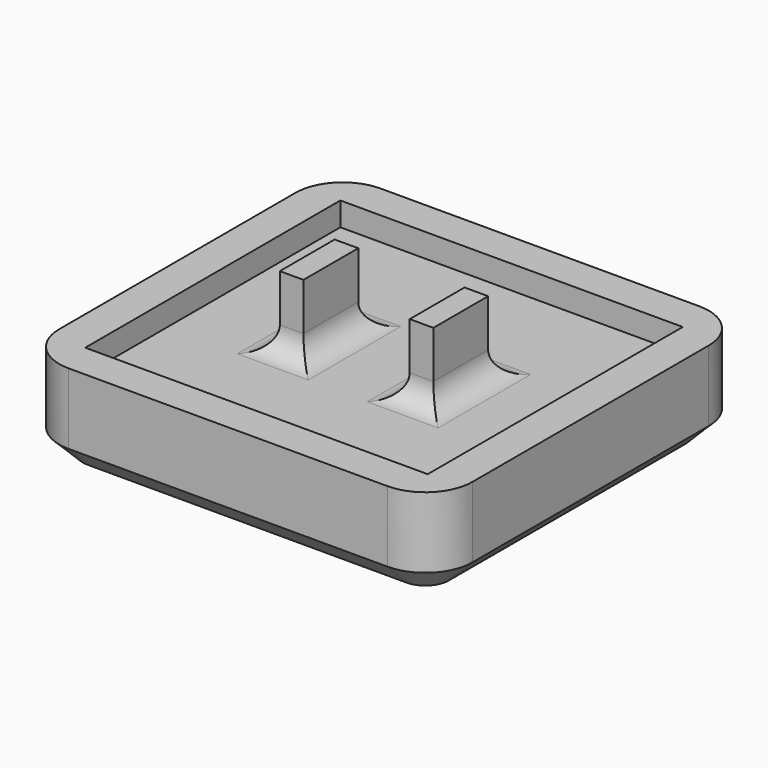
from build123d import *

# Parameters (mm, degrees)
SKETCH_W     = 17.5
SKETCH_H     = 16.5
PAD_DEPTH    = 4
SKETCH002_W  = 14.5
SKETCH002_H  = 13.5
POCKET_DEPTH = 5
SKETCH003_W  = 1
SKETCH003_H  = 2.9
PAD001_DEPTH = 3
FILLET_R     = 1
FILLET001_R  = 2
CHAMFER_SIZE = 1


with BuildPart() as part:
    # Sketch → Pad (new body)
    with BuildSketch(Plane.XY):
        Rectangle(SKETCH_W, SKETCH_H)
    extrude(amount=PAD_DEPTH)

    # Sketch002 → Pocket (cut)
    with BuildSketch(Plane.XY.offset(3)):
        Rectangle(SKETCH002_W, SKETCH002_H)
    extrude(amount=POCKET_DEPTH, mode=Mode.SUBTRACT)

    # Sketch003 (on Face11 of Pocket) → Pad001 (join)
    with BuildSketch(Plane.XY.offset(3)):
        with Locations((-2.75, 0)):
            Rectangle(SKETCH003_W, SKETCH003_H)
        with Locations((2.75, 0)):
            Rectangle(SKETCH003_W, SKETCH003_H)
    extrude(amount=PAD001_DEPTH)

    # Fillet
    fillet_edges = [part.edges().sort_by_distance(p)[0] for p in [
        (2.75, 1.45, 3),
        (3.25, 0, 3),
        (2.75, -1.45, 3),
        (2.25, 0, 3),
        (-2.75, 1.45, 3),
        (-3.25, 0, 3),
        (-2.75, -1.45, 3),
        (-2.25, 0, 3),
    ]]
    fillet(fillet_edges, radius=FILLET_R)

    # Fillet001
    fillet001_edges = [part.edges().sort_by_distance(p)[0] for p in [
        (-8.75, 8.25, 2),
        (8.75, 8.25, 2),
        (8.75, -8.25, 2),
        (-8.75, -8.25, 2),
    ]]
    fillet(fillet001_edges, radius=FILLET001_R)

    # Chamfer
    chamfer_edges = [part.edges().sort_by_distance(p)[0] for p in [
        (-8.75, 0, 0),
        (-8.164214, 7.664214, 0),
        (-8.164214, -7.664214, 0),
        (0, 8.25, 0),
        (0, -8.25, 0),
        (8.164214, 7.664214, 0),
        (8.164214, -7.664214, 0),
        (8.75, 0, 0),
    ]]
    chamfer(chamfer_edges, length=CHAMFER_SIZE)


solid = part.part
